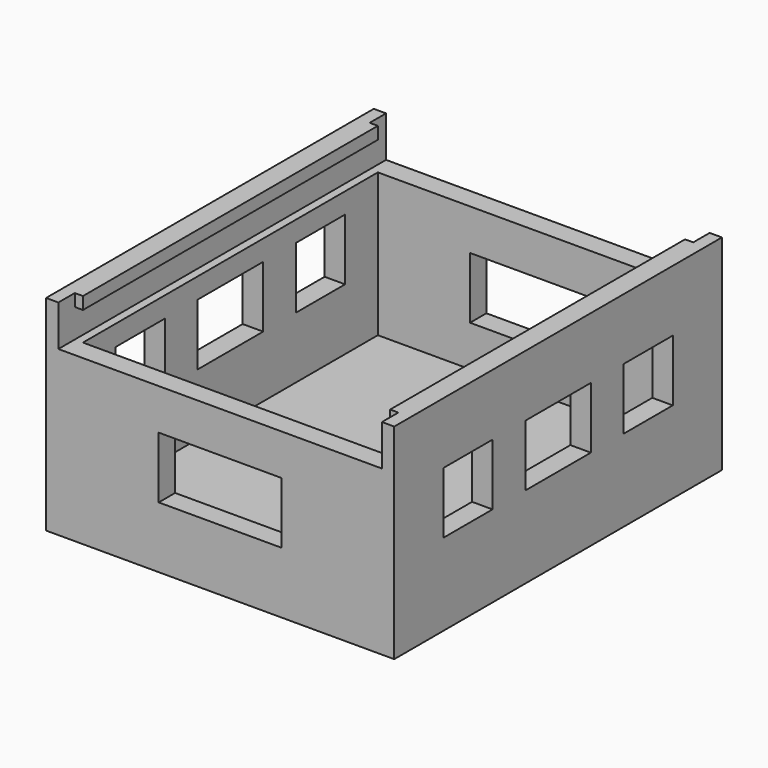
from build123d import *

# Parameters (mm, degrees)
SKETCH_W        = 75
SKETCH_H        = 90
PAD_DEPTH       = 45
THICKNESS_T     = 5
SKETCH002_W     = 15
SKETCH002_H     = 90
POCKET_DEPTH    = 3.5
SKETCH003_W     = 79
SKETCH003_H     = 10
POCKET001_DEPTH = 5
SKETCH004_W     = 79
SKETCH004_H     = 10
POCKET002_DEPTH = 5
SKETCH005_W     = 79
SKETCH005_H     = 7
POCKET003_DEPTH = 90
SKETCH006_W     = 15
SKETCH006_H     = 15
SKETCH006_W_2   = 20
POCKET004_DEPTH = 5
SKETCH007_W     = 15
SKETCH007_H     = 15
SKETCH007_W_2   = 20
POCKET005_DEPTH = 5
SKETCH008_W     = 30
SKETCH008_H     = 15
POCKET006_DEPTH = 5
SKETCH009_W     = 30
SKETCH009_H     = 15
POCKET007_DEPTH = 5


with BuildPart() as part:
    # Sketch → Pad (new body)
    with BuildSketch(Plane.XY):
        Rectangle(SKETCH_W, SKETCH_H)
    extrude(amount=PAD_DEPTH)

    # Thickness
    thickness_openings = [part.faces().sort_by_distance(p)[0] for p in [
        (0, 0, 45),
    ]]
    offset(amount=THICKNESS_T, openings=thickness_openings, kind=Kind.INTERSECTION)

    # Sketch002 (on Face5 of Thickness) → Pocket (cut)
    with BuildSketch(Plane.XY):
        with Locations((30, 0)):
            Rectangle(SKETCH002_W, SKETCH002_H)
    extrude(amount=-POCKET_DEPTH, mode=Mode.SUBTRACT)

    # Sketch003 (on Face13 of Pocket) → Pocket001 (cut)
    with BuildSketch(Plane.XZ.offset(50)):
        with Locations((0, 40)):
            Rectangle(SKETCH003_W, SKETCH003_H)
    extrude(amount=-POCKET001_DEPTH, mode=Mode.SUBTRACT)

    # Sketch004 (on Face19 of Pocket001) → Pocket002 (cut)
    with BuildSketch(Plane(origin=(0, 50, 0), x_dir=(-1, 0, 0), z_dir=(0, 1, 0))):
        with Locations((0, 40)):
            Rectangle(SKETCH004_W, SKETCH004_H)
    extrude(amount=-POCKET002_DEPTH, mode=Mode.SUBTRACT)

    # Sketch005 (on Face12 of Pocket002) → Pocket003 (cut)
    with BuildSketch(Plane(origin=(0, 45, 0), x_dir=(-1, 0, 0), z_dir=(0, 1, 0))):
        with Locations((0, 38.5)):
            Rectangle(SKETCH005_W, SKETCH005_H)
    extrude(amount=-POCKET003_DEPTH, mode=Mode.SUBTRACT)

    # Sketch006 (on Face24 of Pocket003) → Pocket004 (cut)
    with BuildSketch(Plane(origin=(-42.5, 0, 0), x_dir=(0, -1, 0), z_dir=(-1, 0, 0))):
        with Locations((-27.5, 22.5)):
            Rectangle(SKETCH006_W, SKETCH006_H)
        with Locations((27.5, 22.5)):
            Rectangle(SKETCH006_W, SKETCH006_H)
        with Locations((0, 22.5)):
            Rectangle(SKETCH006_W_2, SKETCH006_H)
    extrude(amount=-POCKET004_DEPTH, mode=Mode.SUBTRACT)

    # Sketch007 (on Face38 of Pocket004) → Pocket005 (cut)
    with BuildSketch(Plane.YZ.offset(42.5)):
        with Locations((-27.5, 22.5)):
            Rectangle(SKETCH007_W, SKETCH007_H)
        with Locations((27.5, 22.5)):
            Rectangle(SKETCH007_W, SKETCH007_H)
        with Locations((0, 22.5)):
            Rectangle(SKETCH007_W_2, SKETCH007_H)
    extrude(amount=-POCKET005_DEPTH, mode=Mode.SUBTRACT)

    # Sketch008 (on Face26 of Pocket005) → Pocket006 (cut)
    with BuildSketch(Plane.XZ.offset(50)):
        with Locations((0, 17.5)):
            Rectangle(SKETCH008_W, SKETCH008_H)
    extrude(amount=-POCKET006_DEPTH, mode=Mode.SUBTRACT)

    # Sketch009 (on Face57 of Pocket006) → Pocket007 (cut)
    with BuildSketch(Plane(origin=(0, 50, 0), x_dir=(-1, 0, 0), z_dir=(0, 1, 0))):
        with Locations((0, 17.5)):
            Rectangle(SKETCH009_W, SKETCH009_H)
    extrude(amount=-POCKET007_DEPTH, mode=Mode.SUBTRACT)


solid = part.part
